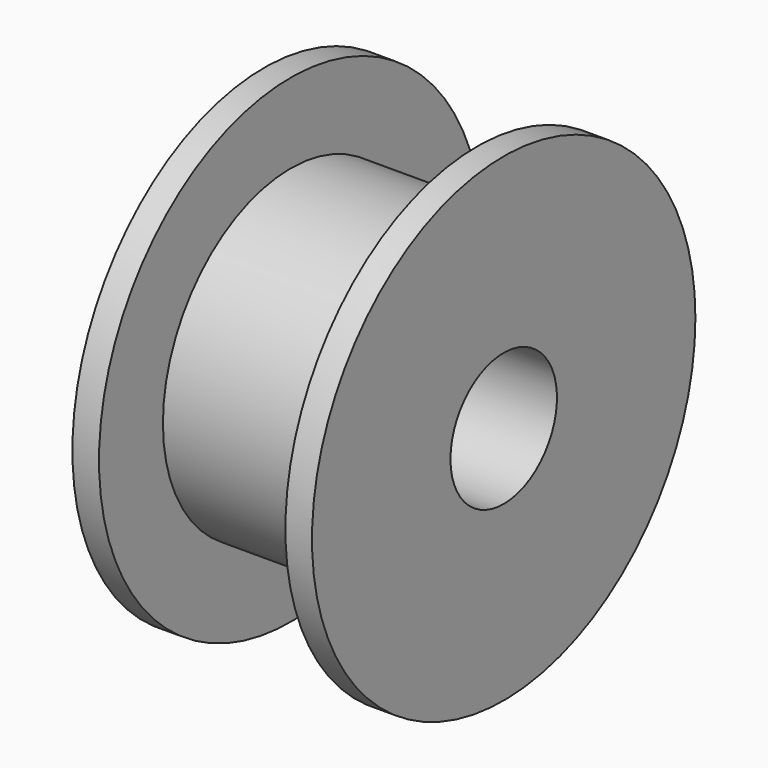
from build123d import *

# Parameters (mm, degrees)
F2_R     = 2.5
F3_DEPTH = 25


with BuildPart() as f1:
    # F0 (on Top) → F1 (revolve)
    with BuildSketch(Plane.XY):
        Polygon((0, 9), (0, 0), (9, 0), (9, 9), (8, 9), (8, 6), (1, 6), (1, 9), align=None)
    revolve(axis=Axis((4.5, 0, 0), (-1, 0, 0)))

    # F2 (on face) → F3 (cut)
    with BuildSketch(Plane(origin=(0, 0, 0), x_dir=(0, -1, 0), z_dir=(-1, 0, 0))):
        Circle(F2_R)
    extrude(amount=-F3_DEPTH, mode=Mode.SUBTRACT)


solid = f1.part
